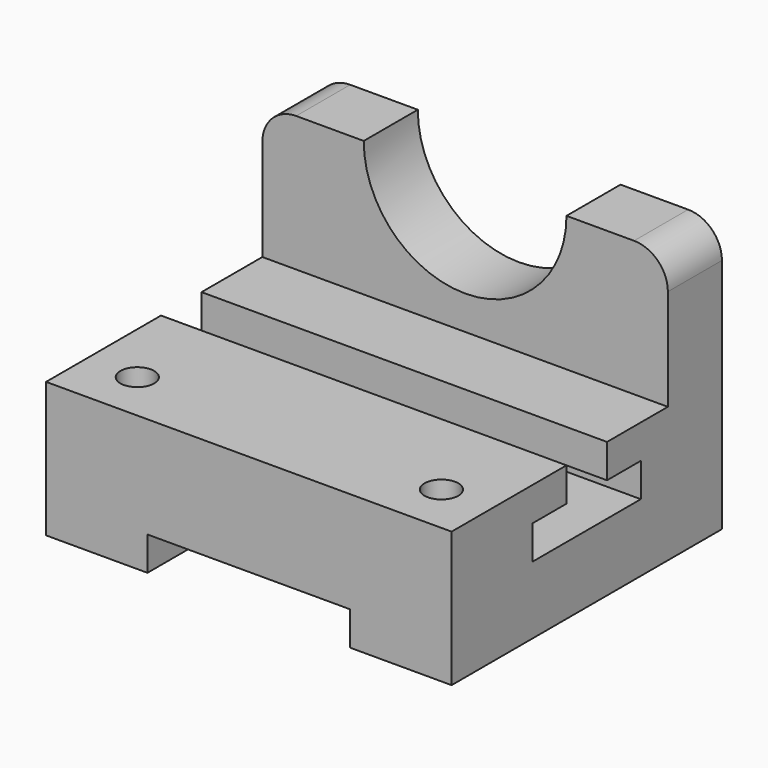
from build123d import *

# Parameters (mm, degrees)
F1_DEPTH  = 63.5
F2_W      = 152.4
F2_H      = 50.8
F3_DEPTH  = 101.6
F4_W      = 76.2
F4_H      = 12.7
F5_DEPTH  = 127
F7_DEPTH  = 152.4
F8_R      = 6.35
F9_DEPTH  = 50.8
F11_DEPTH = 25.4
F12_DEPTH = 25.4
F13_DEPTH = 25.4


with BuildPart() as f1:
    # F0 (on Front) → F1 (new body, symmetric)
    with BuildSketch(Plane.XZ):
        Polygon((-76.2, 0), (0, 0), (76.2, 0), (76.2, 101.6), (-76.2, 101.6), align=None)
    extrude(amount=F1_DEPTH, both=True)

    # F2 (on face) → F3 (cut)
    with BuildSketch(Plane.XZ.offset(63.5)):
        with Locations((0, 76.2)):
            Rectangle(F2_W, F2_H)
    extrude(amount=-F3_DEPTH, mode=Mode.SUBTRACT)

    # F4 (on face) → F5 (cut)
    with BuildSketch(Plane.XZ.offset(63.5)):
        with Locations((0, 6.35)):
            Rectangle(F4_W, F4_H)
    extrude(amount=-F5_DEPTH, mode=Mode.SUBTRACT)

    # F6 (on face) → F7 (cut)
    with BuildSketch(Plane.YZ.offset(76.2)):
        Polygon((9.525, 38.1), (9.525, 50.8), (-9.525, 50.8), (-9.525, 38.1), (-25.4, 38.1), (-25.4, 25.4), (25.4, 25.4), (25.4, 38.1), align=None)
    extrude(amount=-F7_DEPTH, mode=Mode.SUBTRACT)

    # F8 (on face) → F9 (cut)
    with BuildSketch(Plane.XY.offset(50.8)):
        with Locations((-57.15, -44.45)):
            Circle(F8_R)
        with Locations((57.15, -44.45)):
            Circle(F8_R)
    extrude(amount=-F9_DEPTH, mode=Mode.SUBTRACT)

    # F10 (on face) → F11 (cut)
    with BuildSketch(Plane(origin=(0, 63.5, 0), x_dir=(-1, 0, 0), z_dir=(0, 1, 0))):
        with BuildLine():
            Line((76.2, 101.6), (63.5, 101.6))
            ThreePointArc((63.5, 101.6), (72.480256, 97.880256), (76.2, 88.9))
            Line((76.2, 88.9), (76.2, 101.6))
        make_face()
    extrude(amount=-F11_DEPTH, mode=Mode.SUBTRACT)

    # F10 (on face) → F12 (cut)
    with BuildSketch(Plane(origin=(0, 63.5, 0), x_dir=(-1, 0, 0), z_dir=(0, 1, 0))):
        with BuildLine():
            ThreePointArc((-76.2, 88.9), (-72.480256, 97.880256), (-63.5, 101.6))
            Line((-63.5, 101.6), (-76.2, 101.6))
            Line((-76.2, 101.6), (-76.2, 88.9))
        make_face()
    extrude(amount=-F12_DEPTH, mode=Mode.SUBTRACT)

    # F10 (on face) → F13 (cut)
    with BuildSketch(Plane(origin=(0, 63.5, 0), x_dir=(-1, 0, 0), z_dir=(0, 1, 0))):
        with BuildLine():
            ThreePointArc((-38.1, 101.6), (0, 63.5), (38.1, 101.6))
            Line((38.1, 101.6), (-38.1, 101.6))
        make_face()
    extrude(amount=-F13_DEPTH, mode=Mode.SUBTRACT)


solid = f1.part
